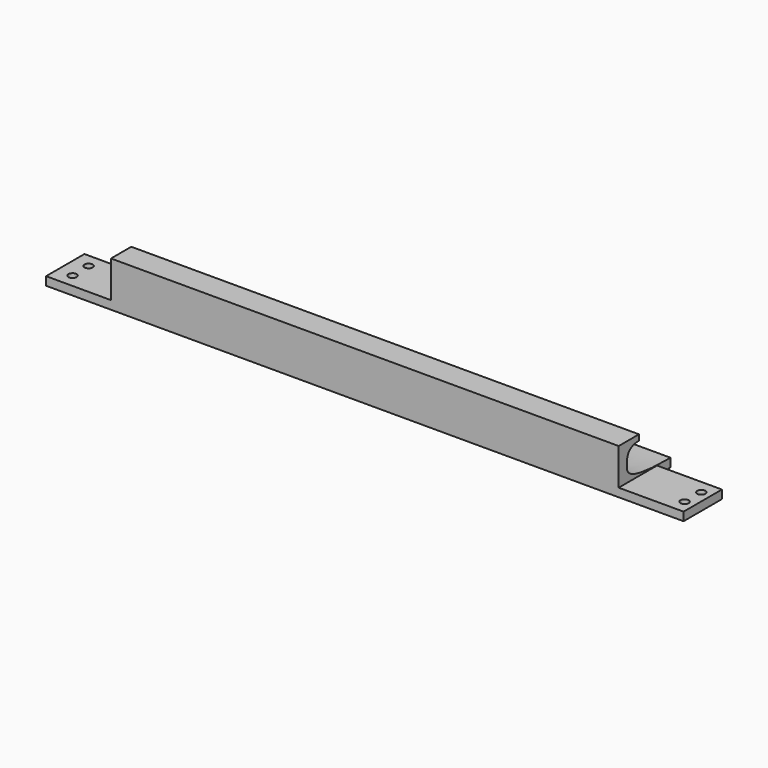
from build123d import *

# Parameters (mm, degrees)
CYLINDER006_R           = 1.45
CYLINDER006_DEPTH       = 50
CYLINDER007_R           = 1.45
CYLINDER007_DEPTH       = 50
BODY007_PLACEMENT_ANGLE = 15
BOX_W                   = 226
BOX_H                   = 17
BOX_DEPTH               = 3
PAD005_DEPTH            = 180
BODY011_PITCH_ANGLE     = -90
BODY011_PLACEMENT_ANGLE = -90


with BuildPart() as cylinder004:
    # Cylinder006 → Cylinder006 (new body)
    with BuildSketch(Plane(origin=(23, 5, -5), x_dir=(1, 0, 0), z_dir=(0, 0, 1))):
        Circle(CYLINDER006_R)
    extrude(amount=CYLINDER006_DEPTH)


with BuildPart() as round_holes_clone:
    # Cylinder007 → Cylinder007 (new body)
    with BuildSketch(Plane(origin=(21, 12, -5), x_dir=(1, 0, 0), z_dir=(0, 0, 1))):
        Circle(CYLINDER007_R)
    extrude(amount=CYLINDER007_DEPTH)

    # Fusion: union Cylinder004
    add(cylinder004.part)


with BuildPart() as round_holes_clone_1:
    # Body007 placement: moved
    add(round_holes_clone.part.moved(Location((0, 5.95964, -31))).rotate(Axis((0, 5.95964, -31), (0, 0, -1)), BODY007_PLACEMENT_ANGLE))


with BuildPart() as fusion003:
    # Part__Mirroring001: instance of round holes clone
    add(round_holes_clone_1.part.mirror(Plane(origin=(132, 0, 0), x_dir=(0, -1, 0), z_dir=(1, 0, 0))))

    # Fusion003: union round holes clone
    add(round_holes_clone_1.part)


with BuildPart() as fusion003_1:
    # Fusion003 placement: moved
    add(fusion003.part.moved(Location((-18, 0, 0))))


with BuildPart() as body009:
    # Box → Box (new body)
    with BuildSketch(Plane.XY):
        with Locations((113, 8.5)):
            Rectangle(BOX_W, BOX_H)
    extrude(amount=BOX_DEPTH)

    # Cut003: cut Fusion003
    add(fusion003_1.part, mode=Mode.SUBTRACT)


with BuildPart() as fusion004:
    # Sketch005 → Pad005 (new body)
    with BuildSketch(Plane.XZ):
        with BuildLine():
            Line((-8.5, -3), (-8.5, 20))
            Line((-8.5, 20), (-5.5, 20))
            add(Edge.make_bspline(
                [(-5.5, 20), (-5.5, 1.17), (0, 0), (5.5, 1.17), (5.5, 6)],
                knots=[0, 0, 0, 0, 0.5, 1, 1, 1, 1], degree=3))
            Line((5.5, 6), (7.5, 6))
            Line((7.5, 6), (7.5, -3))
            Line((7.5, -3), (-8.5, -3))
        make_face()
    extrude(amount=PAD005_DEPTH)


with BuildPart() as fusion004_1:
    # Body011 pitch: moved
    add(fusion004.part.rotate(Axis((0, 0, 0), (0, 1, 0)), BODY011_PITCH_ANGLE))


with BuildPart() as fusion004_2:
    # Body011 placement: moved
    add(fusion004_1.part.moved(Location((203, 3, 8.5))).rotate(Axis((203, 3, 8.5), (0, 0, 1)), BODY011_PLACEMENT_ANGLE))

    # Fusion004: union Body009
    add(body009.part)


solid = fusion004_2.part
